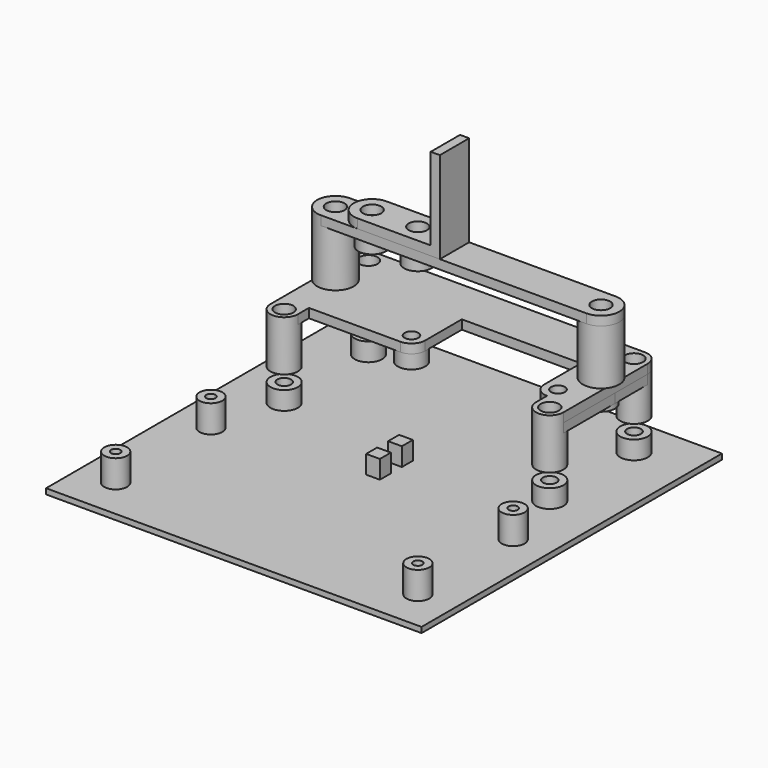
from build123d import *

# Parameters (mm, degrees)
SKETCH002_W   = 82
SKETCH002_H   = 82
PAD002_DEPTH  = 1.2
SKETCH003_R   = 3
SKETCH003_R_2 = 1.5
PAD003_DEPTH  = 4
SKETCH017_R   = 2.5
SKETCH017_R_2 = 1
PAD014_DEPTH  = 6
SKETCH018_W   = 3
SKETCH018_H   = 3
PAD015_DEPTH  = 4
SKETCH_R      = 2
SKETCH_R_2    = 1.5
PAD_DEPTH     = 2
SKETCH019_R   = 3
SKETCH019_R_2 = 1.5
PAD016_DEPTH  = 3
SKETCH020_R   = 3
SKETCH020_R_2 = 2
PAD017_DEPTH  = 9
SKETCH021_R   = 2
SKETCH021_R_2 = 1.5
PAD018_DEPTH  = 2
SKETCH023_R   = 2
SKETCH023_R_2 = 1.5
PAD020_DEPTH  = 2
SKETCH022_R   = 4
SKETCH022_R_2 = 2
PAD019_DEPTH  = 12
SKETCH024_R   = 3
SKETCH024_R_2 = 1.5
PAD021_DEPTH  = 3
SKETCH025_R   = 2
PAD022_DEPTH  = 2
SKETCH026_W   = 2
SKETCH026_H   = 18
PAD023_DEPTH  = 4


with BuildPart() as base:
    # Sketch002 → Pad002 (new body)
    with BuildSketch(Plane.XY):
        with Locations((41, 41)):
            Rectangle(SKETCH002_W, SKETCH002_H)
    extrude(amount=-PAD002_DEPTH)

    # Sketch003 → Pad003 (join)
    with BuildSketch(Plane.XY):
        with Locations((12, 73)):
            Circle(SKETCH003_R)
        with Locations((12, 73)):
            Circle(SKETCH003_R_2, mode=Mode.SUBTRACT)
        with Locations((70, 73)):
            Circle(SKETCH003_R)
        with Locations((70, 73)):
            Circle(SKETCH003_R_2, mode=Mode.SUBTRACT)
        with Locations((70, 50)):
            Circle(SKETCH003_R)
        with Locations((70, 50)):
            Circle(SKETCH003_R_2, mode=Mode.SUBTRACT)
        with Locations((12, 50)):
            Circle(SKETCH003_R)
        with Locations((12, 50)):
            Circle(SKETCH003_R_2, mode=Mode.SUBTRACT)
    extrude(amount=PAD003_DEPTH)

    # Sketch017 → Pad014 (join)
    with BuildSketch(Plane.XY):
        with Locations((8, 9)):
            Circle(SKETCH017_R)
        with Locations((8, 9)):
            Circle(SKETCH017_R_2, mode=Mode.SUBTRACT)
        with Locations((74, 9)):
            Circle(SKETCH017_R)
        with Locations((74, 9)):
            Circle(SKETCH017_R_2, mode=Mode.SUBTRACT)
        with Locations((74, 35)):
            Circle(SKETCH017_R)
        with Locations((74, 35)):
            Circle(SKETCH017_R_2, mode=Mode.SUBTRACT)
        with Locations((8, 35)):
            Circle(SKETCH017_R)
        with Locations((8, 35)):
            Circle(SKETCH017_R_2, mode=Mode.SUBTRACT)
    extrude(amount=PAD014_DEPTH)

    # Sketch018 → Pad015 (join)
    with BuildSketch(Plane.XY):
        with Locations((41, 45.5)):
            Rectangle(SKETCH018_W, SKETCH018_H)
        with Locations((41, 39.5)):
            Rectangle(SKETCH018_W, SKETCH018_H)
    extrude(amount=PAD015_DEPTH)


with BuildPart() as base_1:
    # Body002 placement: moved
    add(base.part.moved(Location((0, 0, -4))))


with BuildPart() as fan:
    # Sketch → Pad (new body)
    with BuildSketch(Plane.XY):
        with BuildLine():
            Line((0, 26), (0, 3))
            ThreePointArc((0, 3), (3, 0), (6, 3))
            Line((6, 6), (6, 3))
            Line((6, 6), (25.999999, 6))
            ThreePointArc((25.999999, 6), (28.12132, 6.87868), (28.999999, 9))
            Line((28.999999, 9), (28.999999, 19))
            Line((28.999999, 19), (54.999999, 19))
            Line((54.999999, 19), (54.999999, 9))
            ThreePointArc((54.999999, 9), (55.878679, 6.878679), (58, 6))
            Line((58, 3), (58, 6))
            ThreePointArc((58, 3), (61, 0), (64, 3))
            Line((64, 3), (64, 26))
            ThreePointArc((64, 26), (63.12132, 28.12132), (61, 29))
            Line((61, 29), (3, 29))
            ThreePointArc((3, 29), (0.87868, 28.12132), (0, 26))
        make_face()
        with Locations((3, 3)):
            Circle(SKETCH_R, mode=Mode.SUBTRACT)
        with Locations((3, 26)):
            Circle(SKETCH_R, mode=Mode.SUBTRACT)
        with Locations((61, 26)):
            Circle(SKETCH_R, mode=Mode.SUBTRACT)
        with Locations((61, 3)):
            Circle(SKETCH_R, mode=Mode.SUBTRACT)
        with Locations((25.999999, 9)):
            Circle(SKETCH_R_2, mode=Mode.SUBTRACT)
        with Locations((57.999999, 9)):
            Circle(SKETCH_R_2, mode=Mode.SUBTRACT)
        with Locations((3, 17)):
            Circle(SKETCH_R_2, mode=Mode.SUBTRACT)
        with Locations((61, 17)):
            Circle(SKETCH_R_2, mode=Mode.SUBTRACT)
    extrude(amount=PAD_DEPTH)

    # Sketch019 → Pad016 (join)
    with BuildSketch(Plane.XY):
        with Locations((26, 9)):
            Circle(SKETCH019_R)
        with Locations((26, 9)):
            Circle(SKETCH019_R_2, mode=Mode.SUBTRACT)
        with Locations((58, 9)):
            Circle(SKETCH019_R)
        with Locations((58, 9)):
            Circle(SKETCH019_R_2, mode=Mode.SUBTRACT)
        with Locations((3, 17)):
            Circle(SKETCH019_R)
        with Locations((3, 17)):
            Circle(SKETCH019_R_2, mode=Mode.SUBTRACT)
        with Locations((61, 17)):
            Circle(SKETCH019_R)
        with Locations((61, 17)):
            Circle(SKETCH019_R_2, mode=Mode.SUBTRACT)
    extrude(amount=-PAD016_DEPTH)

    # Sketch020 → Pad017 (join)
    with BuildSketch(Plane.XY):
        with Locations((3, 26)):
            Circle(SKETCH020_R)
        with Locations((3, 26)):
            Circle(SKETCH020_R_2, mode=Mode.SUBTRACT)
        with Locations((61, 26)):
            Circle(SKETCH020_R)
        with Locations((61, 26)):
            Circle(SKETCH020_R_2, mode=Mode.SUBTRACT)
        with Locations((3, 3)):
            Circle(SKETCH020_R)
        with Locations((3, 3)):
            Circle(SKETCH020_R_2, mode=Mode.SUBTRACT)
        with Locations((61, 3)):
            Circle(SKETCH020_R)
        with Locations((61, 3)):
            Circle(SKETCH020_R_2, mode=Mode.SUBTRACT)
    extrude(amount=-PAD017_DEPTH)

    # Sketch021 → Pad018 (join)
    with BuildSketch(Plane.XY):
        with BuildLine():
            ThreePointArc((3, 29), (0.87868, 28.12132), (0, 26))
            Line((0, 26), (0, 3))
            ThreePointArc((0, 3), (5.12132, 0.87868), (3, 6))
            Line((3, 14), (3, 6))
            ThreePointArc((3, 14), (5.12132, 14.87868), (6, 17))
            Line((6, 17), (6, 23))
            Line((6, 23), (58, 23))
            Line((58, 23), (58, 17))
            ThreePointArc((58, 17), (58.87868, 14.87868), (61, 14))
            Line((61, 6), (61, 14))
            ThreePointArc((61, 6), (58.87868, 0.87868), (64, 3))
            Line((64, 26), (64, 3))
            ThreePointArc((64, 26), (63.12132, 28.12132), (61, 29))
            Line((61, 29), (3, 29))
        make_face()
        with Locations((3, 26)):
            Circle(SKETCH021_R, mode=Mode.SUBTRACT)
        with Locations((61, 26)):
            Circle(SKETCH021_R, mode=Mode.SUBTRACT)
        with Locations((3, 3)):
            Circle(SKETCH021_R, mode=Mode.SUBTRACT)
        with Locations((61, 3)):
            Circle(SKETCH021_R, mode=Mode.SUBTRACT)
        with Locations((3, 17)):
            Circle(SKETCH021_R_2, mode=Mode.SUBTRACT)
        with Locations((61, 17)):
            Circle(SKETCH021_R_2, mode=Mode.SUBTRACT)
    extrude(amount=-PAD018_DEPTH)


with BuildPart() as fan_1:
    # Body placement: moved
    add(fan.part.moved(Location((9, 47, 12))))


with BuildPart() as obj1:
    # Sketch023 → Pad020 (new body)
    with BuildSketch(Plane.XY):
        with BuildLine():
            ThreePointArc((3, 4), (-1, 0), (2.999999, -4))
            Line((61, -4), (2.999999, -4))
            ThreePointArc((61, -4), (65, 0), (61, 4))
            Line((3, 4), (61, 4))
        make_face()
        with Locations((3, 0)):
            Circle(SKETCH023_R, mode=Mode.SUBTRACT)
        with Locations((61, 0)):
            Circle(SKETCH023_R, mode=Mode.SUBTRACT)
        with Locations((11, 0)):
            Circle(SKETCH023_R_2, mode=Mode.SUBTRACT)
        with Locations((21, 0)):
            Circle(SKETCH023_R_2, mode=Mode.SUBTRACT)
    extrude(amount=PAD020_DEPTH)

    # Sketch022 → Pad019 (join)
    with BuildSketch(Plane.XY):
        with Locations((61, 0)):
            Circle(SKETCH022_R)
        with Locations((61, 0)):
            Circle(SKETCH022_R_2, mode=Mode.SUBTRACT)
        with Locations((3, 0)):
            Circle(SKETCH022_R)
        with Locations((3, 0)):
            Circle(SKETCH022_R_2, mode=Mode.SUBTRACT)
    extrude(amount=-PAD019_DEPTH)

    # Sketch024 → Pad021 (join)
    with BuildSketch(Plane.XY):
        with Locations((11, 0)):
            Circle(SKETCH024_R)
        with Locations((11, 0)):
            Circle(SKETCH024_R_2, mode=Mode.SUBTRACT)
        with Locations((21, 0)):
            Circle(SKETCH024_R)
        with Locations((21, 0)):
            Circle(SKETCH024_R_2, mode=Mode.SUBTRACT)
    extrude(amount=-PAD021_DEPTH)


with BuildPart() as obj1_1:
    # Body003 placement: moved
    add(obj1.part.moved(Location((9, 64, 26))))


with BuildPart() as post:
    # Sketch025 → Pad022 (new body)
    with BuildSketch(Plane.XY.offset(28)):
        with BuildLine():
            ThreePointArc((20, 71), (16, 67), (20, 63))
            Line((38, 63), (20, 63))
            Line((38, 71), (38, 63))
            Line((20, 71), (38, 71))
        make_face()
        with Locations((20, 67)):
            Circle(SKETCH025_R, mode=Mode.SUBTRACT)
        with Locations((30, 67)):
            Circle(SKETCH025_R, mode=Mode.SUBTRACT)
    extrude(amount=PAD022_DEPTH)

    # Sketch026 → Pad023 (join, symmetric)
    with BuildSketch(Plane.XZ.offset(-67)):
        with Locations((37, 39)):
            Rectangle(SKETCH026_W, SKETCH026_H)
    extrude(amount=PAD023_DEPTH, both=True)


with BuildPart() as post_1:
    # Body004 placement: moved
    add(post.part.moved(Location((0, -3, 0))))


solid = Compound([base_1.part, fan_1.part, obj1_1.part, post_1.part])
